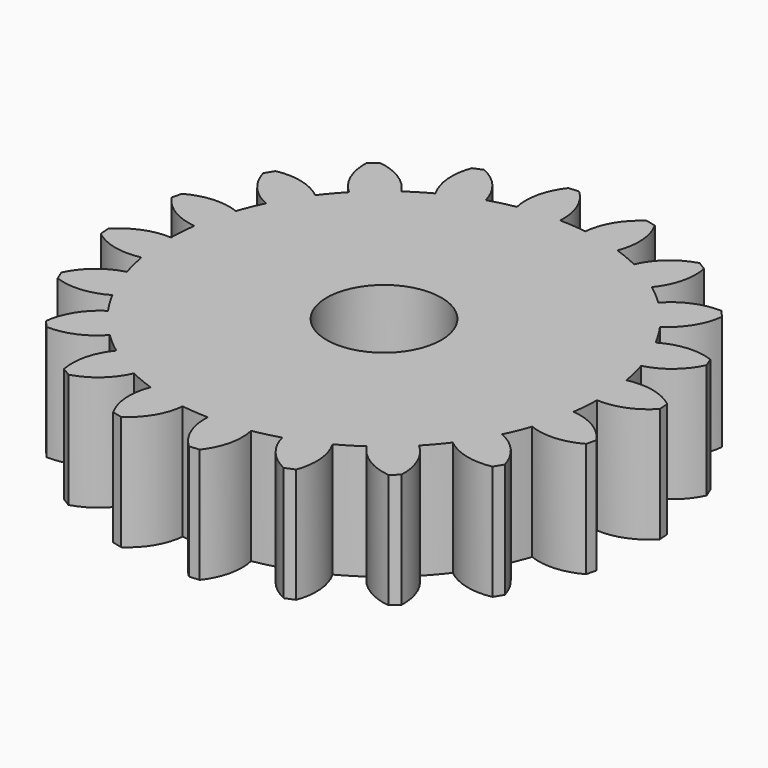
from build123d import *

# Parameters (mm, degrees)
F1_R     = 2.5
F2_DEPTH = 5


with BuildPart() as f2:
    # F1 (on Top) → F2 (new body)
    with BuildSketch(Plane.XY):
        with BuildLine():
            ThreePointArc((-1.6229776334, 9.2680599554), (-0.7382287643, 9.3800858219), (0.1531520845, 9.4078443957))
            ThreePointArc((0.1531520845, 9.4078443957), (-0.0317997207, 10.5374998224), (-0.6817601701, 11.4797736507))
            Line((-0.6817601701, 11.4797736507), (-1.1224656787, 11.4450893749))
            ThreePointArc((-1.1224656787, 11.4450893749), (-1.6170199342, 10.4127402859), (-1.6229776334, 9.2680599554))
        make_face()
        with BuildLine():
            ThreePointArc((9.4078443957, -0.1531520845), (9.4087792756, -0.0765785786), (9.4090909091, 0))
            ThreePointArc((9.4090909091, 0), (9.3737668631, 0.8145468262), (9.2680599554, 1.6229776334))
            ThreePointArc((9.2680599554, 1.6229776334), (9.1491169783, 2.1965086508), (8.9947183137, 2.7615275108))
            ThreePointArc((8.9947183137, 2.7615275108), (8.6928665104, 3.6007032045), (8.3129211438, 4.4075314852))
            ThreePointArc((8.3129211438, 4.4075314852), (8.0225688191, 4.9162364953), (7.7011265332, 5.4058895526))
            ThreePointArc((7.7011265332, 5.4058895526), (7.1547288581, 6.1107157275), (6.5440556911, 6.7606454461))
            ThreePointArc((6.5440556911, 6.7606454461), (6.1107157275, 7.1547288581), (5.6536948308, 7.52108546))
            ThreePointArc((5.6536948308, 7.52108546), (4.9162364953, 8.0225688191), (4.1346124722, 8.4519803265))
            ThreePointArc((4.1346124722, 8.4519803265), (3.6007032045, 8.6928665104), (3.0528400867, 8.90006512))
            ThreePointArc((3.0528400867, 8.90006512), (2.1965086508, 9.1491169783), (1.320444577, 9.3159764842))
            ThreePointArc((1.320444577, 9.3159764842), (0.7382287643, 9.3800858219), (0.1531520845, 9.4078443957))
            ThreePointArc((0.1531520845, 9.4078443957), (-0.7382287643, 9.3800858219), (-1.6229776334, 9.2680599554))
            ThreePointArc((-1.6229776334, 9.2680599554), (-2.1965086508, 9.1491169783), (-2.7615275108, 8.9947183137))
            ThreePointArc((-2.7615275108, 8.9947183137), (-3.6007032045, 8.6928665104), (-4.4075314852, 8.3129211438))
            ThreePointArc((-4.4075314852, 8.3129211438), (-4.9162364953, 8.0225688191), (-5.4058895526, 7.7011265332))
            ThreePointArc((-5.4058895526, 7.7011265332), (-6.1107157275, 7.1547288581), (-6.7606454461, 6.5440556911))
            ThreePointArc((-6.7606454461, 6.5440556911), (-7.1547288581, 6.1107157275), (-7.52108546, 5.6536948308))
            ThreePointArc((-7.52108546, 5.6536948308), (-8.0225688191, 4.9162364953), (-8.4519803265, 4.1346124722))
            ThreePointArc((-8.4519803265, 4.1346124722), (-8.6928665104, 3.6007032045), (-8.90006512, 3.0528400867))
            ThreePointArc((-8.90006512, 3.0528400867), (-9.1491169783, 2.1965086508), (-9.3159764842, 1.320444577))
            ThreePointArc((-9.3159764842, 1.320444577), (-9.3800858219, 0.7382287643), (-9.4078443957, 0.1531520845))
            ThreePointArc((-9.4078443957, 0.1531520845), (-9.3800858219, -0.7382287643), (-9.2680599554, -1.6229776334))
            ThreePointArc((-9.2680599554, -1.6229776334), (-9.1491169783, -2.1965086508), (-8.9947183137, -2.7615275108))
            ThreePointArc((-8.9947183137, -2.7615275108), (-8.6928665104, -3.6007032045), (-8.3129211438, -4.4075314852))
            ThreePointArc((-8.3129211438, -4.4075314852), (-8.0225688191, -4.9162364953), (-7.7011265332, -5.4058895526))
            ThreePointArc((-7.7011265332, -5.4058895526), (-7.1547288581, -6.1107157275), (-6.5440556911, -6.7606454461))
            ThreePointArc((-6.5440556911, -6.7606454461), (-6.1107157275, -7.1547288581), (-5.6536948308, -7.52108546))
            ThreePointArc((-5.6536948308, -7.52108546), (-4.9162364953, -8.0225688191), (-4.1346124722, -8.4519803265))
            ThreePointArc((-4.1346124722, -8.4519803265), (-3.6007032045, -8.6928665104), (-3.0528400867, -8.90006512))
            ThreePointArc((-3.0528400867, -8.90006512), (-2.1965086508, -9.1491169783), (-1.320444577, -9.3159764842))
            ThreePointArc((-1.320444577, -9.3159764842), (-0.7382287643, -9.3800858219), (-0.1531520845, -9.4078443957))
            ThreePointArc((-0.1531520845, -9.4078443957), (0.7382287643, -9.3800858219), (1.6229776334, -9.2680599554))
            ThreePointArc((1.6229776334, -9.2680599554), (2.1965086508, -9.1491169783), (2.7615275108, -8.9947183137))
            ThreePointArc((2.7615275108, -8.9947183137), (3.6007032045, -8.6928665104), (4.4075314852, -8.3129211438))
            ThreePointArc((4.4075314852, -8.3129211438), (4.9162364953, -8.0225688191), (5.4058895526, -7.7011265332))
            ThreePointArc((5.4058895526, -7.7011265332), (6.1107157275, -7.1547288581), (6.7606454461, -6.5440556911))
            ThreePointArc((6.7606454461, -6.5440556911), (7.1547288581, -6.1107157275), (7.52108546, -5.6536948308))
            ThreePointArc((7.52108546, -5.6536948308), (8.0225688191, -4.9162364953), (8.4519803265, -4.1346124722))
            ThreePointArc((8.4519803265, -4.1346124722), (8.6928665104, -3.6007032045), (8.90006512, -3.0528400867))
            ThreePointArc((8.90006512, -3.0528400867), (9.1491169783, -2.1965086508), (9.3159764842, -1.320444577))
            ThreePointArc((9.3159764842, -1.320444577), (9.3800858219, -0.7382287643), (9.4078443957, -0.1531520845))
        make_face()
        Circle(F1_R, mode=Mode.SUBTRACT)
        with BuildLine():
            ThreePointArc((-4.4075314852, 8.3129211438), (-3.6007032045, 8.6928665104), (-2.7615275108, 8.9947183137))
            ThreePointArc((-2.7615275108, 8.9947183137), (-3.286509855, 10.0119312174), (-4.195837602, 10.7072380574))
            Line((-4.195837602, 10.7072380574), (-4.604255417, 10.5380658593))
            ThreePointArc((-4.604255417, 10.5380658593), (-4.7555910517, 9.4034178615), (-4.4075314852, 8.3129211438))
        make_face()
        with BuildLine():
            ThreePointArc((-6.7606454461, 6.5440556911), (-6.1107157275, 7.1547288581), (-5.4058895526, 7.7011265332))
            ThreePointArc((-5.4058895526, 7.7011265332), (-6.2195135061, 8.5063250277), (-7.2991972152, 8.8866034014))
            Line((-7.2991972152, 8.8866034014), (-7.6353485554, 8.5995030343))
            ThreePointArc((-7.6353485554, 8.5995030343), (-7.428651783, 7.4736233793), (-6.7606454461, 6.5440556911))
        make_face()
        with BuildLine():
            ThreePointArc((-8.4519803265, 4.1346124722), (-8.0225688191, 4.9162364953), (-7.52108546, 5.6536948308))
            ThreePointArc((-7.52108546, 5.6536948308), (-8.5437078414, 6.1680604771), (-9.6880605486, 6.1960860878))
            Line((-9.6880605486, 6.1960860878), (-9.9190405786, 5.8191609361))
            ThreePointArc((-9.9190405786, 5.8191609361), (-9.3745443193, 4.812258569), (-8.4519803265, 4.1346124722))
        make_face()
        with BuildLine():
            ThreePointArc((-9.3159764842, 1.320444577), (-9.1491169783, 2.1965086508), (-8.90006512, 3.0528400867))
            ThreePointArc((-8.90006512, 3.0528400867), (-10.0315845257, 3.2260231917), (-11.1285890147, 2.8990526973))
            Line((-11.1285890147, 2.8990526973), (-11.2317877999, 2.469198821))
            ThreePointArc((-11.2317877999, 2.469198821), (-10.4027911413, 1.679836361), (-9.3159764842, 1.320444577))
        make_face()
        with BuildLine():
            ThreePointArc((-9.2680599554, -1.6229776334), (-9.3800858219, -0.7382287643), (-9.4078443957, 0.1531520845))
            ThreePointArc((-9.4078443957, 0.1531520845), (-10.5374998224, -0.0317997207), (-11.4797736507, -0.6817601701))
            Line((-11.4797736507, -0.6817601701), (-11.4450893749, -1.1224656787))
            ThreePointArc((-11.4450893749, -1.1224656787), (-10.4127402859, -1.6170199342), (-9.2680599554, -1.6229776334))
        make_face()
        with BuildLine():
            ThreePointArc((-10.5380658593, -4.604255417), (-9.4034178615, -4.7555910517), (-8.3129211438, -4.4075314852))
            ThreePointArc((-8.3129211438, -4.4075314852), (-8.6928665104, -3.6007032045), (-8.9947183137, -2.7615275108))
            ThreePointArc((-8.9947183137, -2.7615275108), (-10.0119312174, -3.286509855), (-10.7072380574, -4.195837602))
            Line((-10.7072380574, -4.195837602), (-10.5380658593, -4.604255417))
        make_face()
        with BuildLine():
            ThreePointArc((-8.5995030343, -7.6353485554), (-7.4736233793, -7.428651783), (-6.5440556911, -6.7606454461))
            ThreePointArc((-6.5440556911, -6.7606454461), (-7.1547288581, -6.1107157275), (-7.7011265332, -5.4058895526))
            ThreePointArc((-7.7011265332, -5.4058895526), (-8.5063250277, -6.2195135061), (-8.8866034014, -7.2991972152))
            Line((-8.8866034014, -7.2991972152), (-8.5995030343, -7.6353485554))
        make_face()
        with BuildLine():
            ThreePointArc((-5.8191609361, -9.9190405786), (-4.812258569, -9.3745443193), (-4.1346124722, -8.4519803265))
            ThreePointArc((-4.1346124722, -8.4519803265), (-4.9162364953, -8.0225688191), (-5.6536948308, -7.52108546))
            ThreePointArc((-5.6536948308, -7.52108546), (-6.1680604771, -8.5437078414), (-6.1960860878, -9.6880605486))
            Line((-6.1960860878, -9.6880605486), (-5.8191609361, -9.9190405786))
        make_face()
        with BuildLine():
            ThreePointArc((-2.469198821, -11.2317877999), (-1.679836361, -10.4027911413), (-1.320444577, -9.3159764842))
            ThreePointArc((-1.320444577, -9.3159764842), (-2.1965086508, -9.1491169783), (-3.0528400867, -8.90006512))
            ThreePointArc((-3.0528400867, -8.90006512), (-3.2260231917, -10.0315845257), (-2.8990526973, -11.1285890147))
            Line((-2.8990526973, -11.1285890147), (-2.469198821, -11.2317877999))
        make_face()
        with BuildLine():
            ThreePointArc((1.1224656787, -11.4450893749), (1.6170199342, -10.4127402859), (1.6229776334, -9.2680599554))
            ThreePointArc((1.6229776334, -9.2680599554), (0.7382287643, -9.3800858219), (-0.1531520845, -9.4078443957))
            ThreePointArc((-0.1531520845, -9.4078443957), (0.0317997207, -10.5374998224), (0.6817601701, -11.4797736507))
            Line((0.6817601701, -11.4797736507), (1.1224656787, -11.4450893749))
        make_face()
        with BuildLine():
            ThreePointArc((4.604255417, -10.5380658593), (4.7555910517, -9.4034178615), (4.4075314852, -8.3129211438))
            ThreePointArc((4.4075314852, -8.3129211438), (3.6007032045, -8.6928665104), (2.7615275108, -8.9947183137))
            ThreePointArc((2.7615275108, -8.9947183137), (3.286509855, -10.0119312174), (4.195837602, -10.7072380574))
            Line((4.195837602, -10.7072380574), (4.604255417, -10.5380658593))
        make_face()
        with BuildLine():
            ThreePointArc((7.6353485554, -8.5995030343), (7.428651783, -7.4736233793), (6.7606454461, -6.5440556911))
            ThreePointArc((6.7606454461, -6.5440556911), (6.1107157275, -7.1547288581), (5.4058895526, -7.7011265332))
            ThreePointArc((5.4058895526, -7.7011265332), (6.2195135061, -8.5063250277), (7.2991972152, -8.8866034014))
            Line((7.2991972152, -8.8866034014), (7.6353485554, -8.5995030343))
        make_face()
        with BuildLine():
            ThreePointArc((9.9190405786, -5.8191609361), (9.3745443193, -4.812258569), (8.4519803265, -4.1346124722))
            ThreePointArc((8.4519803265, -4.1346124722), (8.0225688191, -4.9162364953), (7.52108546, -5.6536948308))
            ThreePointArc((7.52108546, -5.6536948308), (8.5437078414, -6.1680604771), (9.6880605486, -6.1960860878))
            Line((9.6880605486, -6.1960860878), (9.9190405786, -5.8191609361))
        make_face()
        with BuildLine():
            ThreePointArc((11.2317877999, -2.469198821), (10.4027911413, -1.679836361), (9.3159764842, -1.320444577))
            ThreePointArc((9.3159764842, -1.320444577), (9.1491169783, -2.1965086508), (8.90006512, -3.0528400867))
            ThreePointArc((8.90006512, -3.0528400867), (10.0315845257, -3.2260231917), (11.1285890147, -2.8990526973))
            Line((11.1285890147, -2.8990526973), (11.2317877999, -2.469198821))
        make_face()
        with BuildLine():
            ThreePointArc((9.2680599554, 1.6229776334), (9.3737668631, 0.8145468262), (9.4090909091, 0))
            ThreePointArc((9.4090909091, 0), (9.4087792756, -0.0765785786), (9.4078443957, -0.1531520845))
            ThreePointArc((9.4078443957, -0.1531520845), (10.5374998224, 0.0317997207), (11.4797736507, 0.6817601701))
            Line((11.4797736507, 0.6817601701), (11.4450893749, 1.1224656787))
            ThreePointArc((11.4450893749, 1.1224656787), (10.4127402859, 1.6170199342), (9.2680599554, 1.6229776334))
        make_face()
        with BuildLine():
            ThreePointArc((8.3129211438, 4.4075314852), (8.6928665104, 3.6007032045), (8.9947183137, 2.7615275108))
            ThreePointArc((8.9947183137, 2.7615275108), (10.0119312174, 3.286509855), (10.7072380574, 4.195837602))
            Line((10.7072380574, 4.195837602), (10.5380658593, 4.604255417))
            ThreePointArc((10.5380658593, 4.604255417), (9.4034178615, 4.7555910517), (8.3129211438, 4.4075314852))
        make_face()
        with BuildLine():
            ThreePointArc((6.5440556911, 6.7606454461), (7.1547288581, 6.1107157275), (7.7011265332, 5.4058895526))
            ThreePointArc((7.7011265332, 5.4058895526), (8.5063250277, 6.2195135061), (8.8866034014, 7.2991972152))
            Line((8.8866034014, 7.2991972152), (8.5995030343, 7.6353485554))
            ThreePointArc((8.5995030343, 7.6353485554), (7.4736233793, 7.428651783), (6.5440556911, 6.7606454461))
        make_face()
        with BuildLine():
            ThreePointArc((4.1346124722, 8.4519803265), (4.9162364953, 8.0225688191), (5.6536948308, 7.52108546))
            ThreePointArc((5.6536948308, 7.52108546), (6.1680604771, 8.5437078414), (6.1960860878, 9.6880605486))
            Line((6.1960860878, 9.6880605486), (5.8191609361, 9.9190405786))
            ThreePointArc((5.8191609361, 9.9190405786), (4.812258569, 9.3745443193), (4.1346124722, 8.4519803265))
        make_face()
        with BuildLine():
            ThreePointArc((1.320444577, 9.3159764842), (2.1965086508, 9.1491169783), (3.0528400867, 8.90006512))
            ThreePointArc((3.0528400867, 8.90006512), (3.2260231917, 10.0315845257), (2.8990526973, 11.1285890147))
            Line((2.8990526973, 11.1285890147), (2.469198821, 11.2317877999))
            ThreePointArc((2.469198821, 11.2317877999), (1.679836361, 10.4027911413), (1.320444577, 9.3159764842))
        make_face()
    extrude(amount=F2_DEPTH)


solid = f2.part
